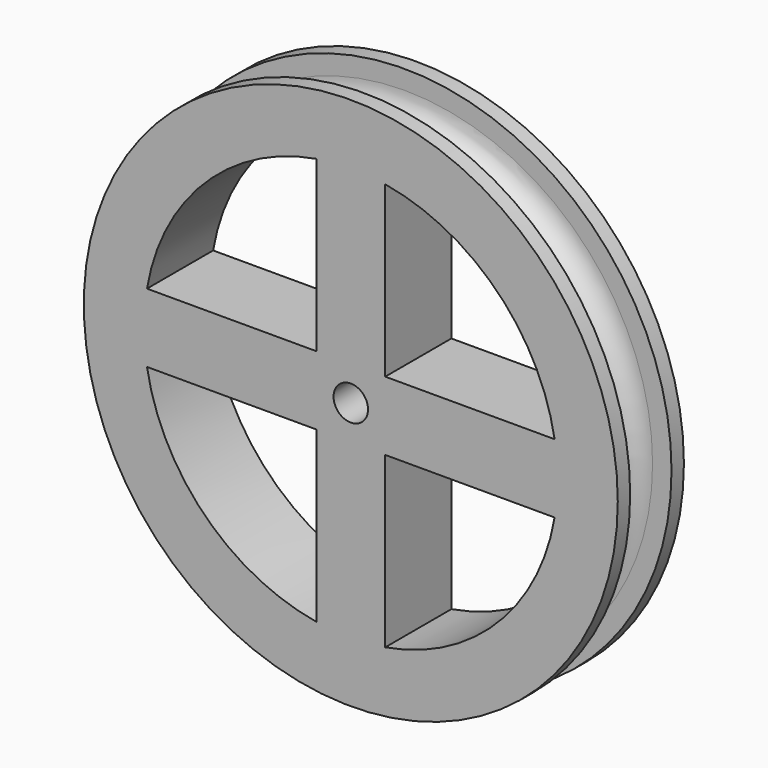
from build123d import *

# Parameters (mm, degrees)
F0_R     = 38.75
F0_W     = 10
F0_H     = 10
F3_DEPTH = 6
F5_R     = 2.5
F6_DEPTH = 12.5


with BuildPart() as f3:
    # F0 (on Front) → F3 (new body, symmetric)
    with BuildSketch(Plane.XZ):
        Circle(F0_R)
        with BuildLine():
            ThreePointArc((29.5803989155, 5), (29.8949156836, 2.5087878084), (30, 0))
            ThreePointArc((30, 0), (29.8949156836, -2.5087878084), (29.5803989155, -5))
            ThreePointArc((29.5803989155, -5), (21.2132034356, -21.2132034356), (5, -29.5803989155))
            ThreePointArc((5, -29.5803989155), (0, -30), (-5, -29.5803989155))
            ThreePointArc((-5, -29.5803989155), (-21.2132034356, -21.2132034356), (-29.5803989155, -5))
            ThreePointArc((-29.5803989155, -5), (-30, 0), (-29.5803989155, 5))
            ThreePointArc((-29.5803989155, 5), (-21.2132034356, 21.2132034356), (-5, 29.5803989155))
            ThreePointArc((-5, 29.5803989155), (0, 30), (5, 29.5803989155))
            ThreePointArc((5, 29.5803989155), (21.2132034356, 21.2132034356), (29.5803989155, 5))
        make_face(mode=Mode.SUBTRACT)
        with BuildLine():
            Line((5, 5), (5, 29.5803989155))
            ThreePointArc((5, 29.5803989155), (0, 30), (-5, 29.5803989155))
            Line((-5, 29.5803989155), (-5, 5))
            Line((-5, 5), (5, 5))
        make_face()
        with BuildLine():
            ThreePointArc((29.5803989155, -5), (29.8949156836, -2.5087878084), (30, 0))
            ThreePointArc((30, 0), (29.8949156836, 2.5087878084), (29.5803989155, 5))
            Line((29.5803989155, 5), (5, 5))
            Line((5, 5), (5, -5))
            Line((5, -5), (29.5803989155, -5))
        make_face()
        Rectangle(F0_W, F0_H)
        with BuildLine():
            Line((-5, -5), (-5, 5))
            Line((-5, 5), (-29.5803989155, 5))
            ThreePointArc((-29.5803989155, 5), (-30, 0), (-29.5803989155, -5))
            Line((-29.5803989155, -5), (-5, -5))
        make_face()
        with BuildLine():
            ThreePointArc((-5, -29.5803989155), (0, -30), (5, -29.5803989155))
            Line((5, -29.5803989155), (5, -5))
            Line((5, -5), (-5, -5))
            Line((-5, -5), (-5, -29.5803989155))
        make_face()
    extrude(amount=F3_DEPTH, both=True)

    # F1 (on Right) → F4 (revolve, cut)
    with BuildSketch(Plane.YZ):
        with BuildLine():
            Line((3.75, 36), (3.75, 40))
            Line((3.75, 40), (-3.75, 40))
            Line((-3.75, 40), (-3.75, 36))
            ThreePointArc((-3.75, 36), (-2.7248737342, 33.5251262658), (-0.25, 32.5))
            Line((-0.25, 32.5), (0.25, 32.5))
            ThreePointArc((0.25, 32.5), (2.7248737342, 33.5251262658), (3.75, 36))
        make_face()
    revolve(axis=Axis((0, -2.0112972707, 0), (0, -1, 0)), mode=Mode.SUBTRACT)

    # F5 (on Front) → F6 (cut, symmetric)
    with BuildSketch(Plane.XZ):
        Circle(F5_R)
    extrude(amount=F6_DEPTH, both=True, mode=Mode.SUBTRACT)


solid = f3.part
